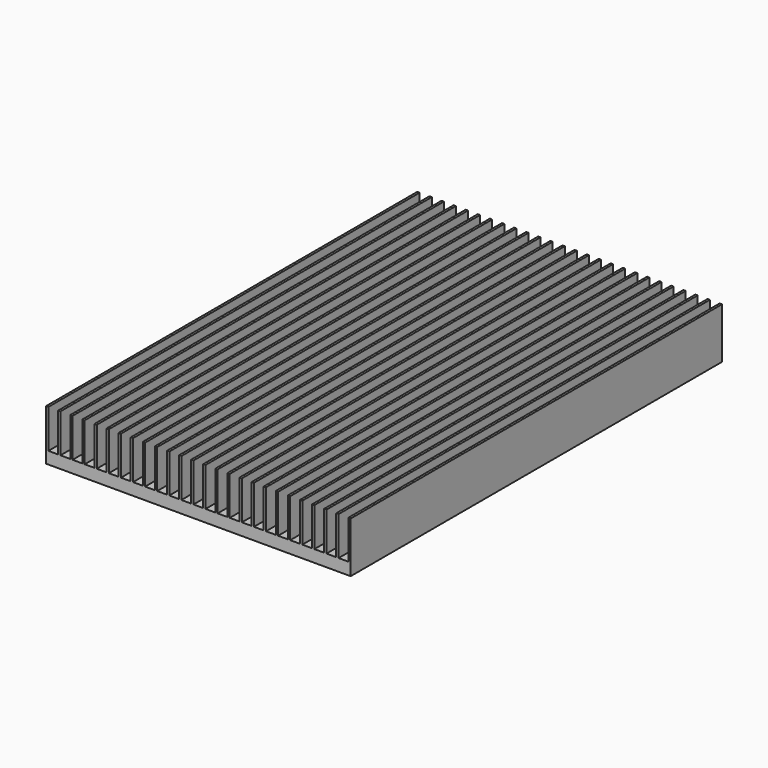
from build123d import *

# Parameters (mm, degrees)
F1_DEPTH = 304.8


with BuildPart() as f1:
    # F0 (on Front) → F1 (new body)
    with BuildSketch(Plane.XZ):
        Polygon((-100.0125, 33.3248), (-100.0125, 0), (100.0125, 0), (100.0125, 33.3248), (98.4885, 33.3248), (98.4885, 7.9248), (92.07246, 7.9248), (92.07246, 33.3248), (90.54846, 33.3248), (90.54846, 7.9248), (84.13242, 7.9248), (84.13242, 33.3248), (82.60842, 33.3248), (82.60842, 7.9248), (76.19238, 7.9248), (76.19238, 33.3248), (74.66838, 33.3248), (74.66838, 7.9248), (68.25234, 7.9248), (68.25234, 33.3248), (66.72834, 33.3248), (66.72834, 7.9248), (60.3123, 7.9248), (60.3123, 33.3248), (58.7883, 33.3248), (58.7883, 7.9248), (52.37226, 7.9248), (52.37226, 33.3248), (50.84826, 33.3248), (50.84826, 7.9248), (44.43222, 7.9248), (44.43222, 33.3248), (42.90822, 33.3248), (42.90822, 7.9248), (36.49218, 7.9248), (36.49218, 33.3248), (34.96818, 33.3248), (34.96818, 7.9248), (28.55214, 7.9248), (28.55214, 33.3248), (27.02814, 33.3248), (27.02814, 7.9248), (20.6121, 7.9248), (20.6121, 33.3248), (19.0881, 33.3248), (19.0881, 7.9248), (12.67206, 7.9248), (12.67206, 33.3248), (11.14806, 33.3248), (11.14806, 7.9248), (4.73202, 7.9248), (4.73202, 33.3248), (3.20802, 33.3248), (3.20802, 7.9248), (-3.20802, 7.9248), (-3.20802, 33.3248), (-4.73202, 33.3248), (-4.73202, 7.9248), (-11.14806, 7.9248), (-11.14806, 33.3248), (-12.67206, 33.3248), (-12.67206, 7.9248), (-19.0881, 7.9248), (-19.0881, 33.3248), (-20.6121, 33.3248), (-20.6121, 7.9248), (-27.02814, 7.9248), (-27.02814, 33.3248), (-28.55214, 33.3248), (-28.55214, 7.9248), (-34.96818, 7.9248), (-34.96818, 33.3248), (-36.49218, 33.3248), (-36.49218, 7.9248), (-42.90822, 7.9248), (-42.90822, 33.3248), (-44.43222, 33.3248), (-44.43222, 7.9248), (-50.84826, 7.9248), (-50.84826, 33.3248), (-52.37226, 33.3248), (-52.37226, 7.9248), (-58.7883, 7.9248), (-58.7883, 33.3248), (-60.3123, 33.3248), (-60.3123, 7.9248), (-66.72834, 7.9248), (-66.72834, 33.3248), (-68.25234, 33.3248), (-68.25234, 7.9248), (-74.66838, 7.9248), (-74.66838, 33.3248), (-76.19238, 33.3248), (-76.19238, 7.9248), (-82.60842, 7.9248), (-82.60842, 33.3248), (-84.13242, 33.3248), (-84.13242, 7.9248), (-90.54846, 7.9248), (-90.54846, 33.3248), (-92.07246, 33.3248), (-92.07246, 7.9248), (-98.4885, 7.9248), (-98.4885, 33.3248), align=None)
    extrude(amount=F1_DEPTH)


solid = f1.part
